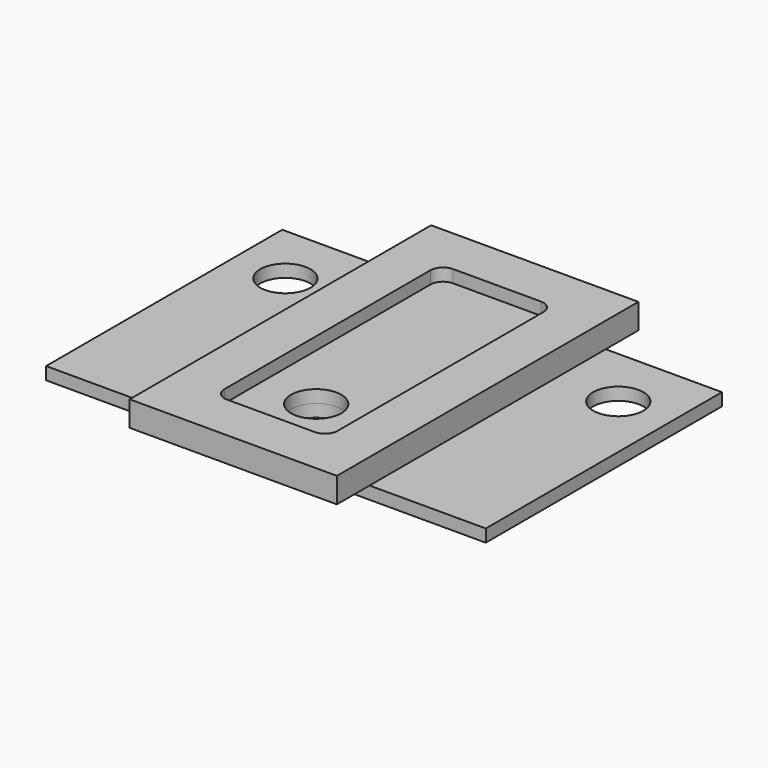
from build123d import *

# Parameters (mm, degrees)
F0_W     = 70
F0_H     = 47
F0_R     = 4
F2_DEPTH = 2
F3_W     = 33
F3_H     = 60
F3_R     = 4
F4_DEPTH = 2
F1_W     = 33
F1_H     = 60
F5_DEPTH = 4


with BuildPart() as f2:
    # F0 (on Top) → F2 (new body)
    with BuildSketch(Plane.XY):
        Rectangle(F0_W, F0_H)
        with Locations((0, -13.5)):
            Circle(F0_R, mode=Mode.SUBTRACT)
        with Locations((-26.5, 13.5)):
            Circle(F0_R, mode=Mode.SUBTRACT)
        with Locations((26.5, 13.5)):
            Circle(F0_R, mode=Mode.SUBTRACT)
    extrude(amount=-F2_DEPTH)


with BuildPart() as f4:
    # F3 (on Top) → F4 (new body)
    with BuildSketch(Plane.XY):
        Rectangle(F3_W, F3_H)
        with Locations((0, -13.5)):
            Circle(F3_R, mode=Mode.SUBTRACT)
    extrude(amount=F4_DEPTH)


with BuildPart() as f5:
    # F1 (on Top) → F5 (new body)
    with BuildSketch(Plane.XY):
        Rectangle(F1_W, F1_H)
        with BuildLine():
            ThreePointArc((9, -20.5), (8.414214, -21.914214), (7, -22.5))
            Line((7, -22.5), (-7, -22.5))
            ThreePointArc((-7, -22.5), (-8.414214, -21.914214), (-9, -20.5))
            Line((-9, -20.5), (-9, 20.5))
            ThreePointArc((-9, 20.5), (-8.414214, 21.914214), (-7, 22.5))
            Line((-7, 22.5), (7, 22.5))
            ThreePointArc((7, 22.5), (8.414214, 21.914214), (9, 20.5))
            Line((9, 20.5), (9, -20.5))
        make_face(mode=Mode.SUBTRACT)
    extrude(amount=F5_DEPTH)


solid = Compound([f2.part, f4.part, f5.part])
